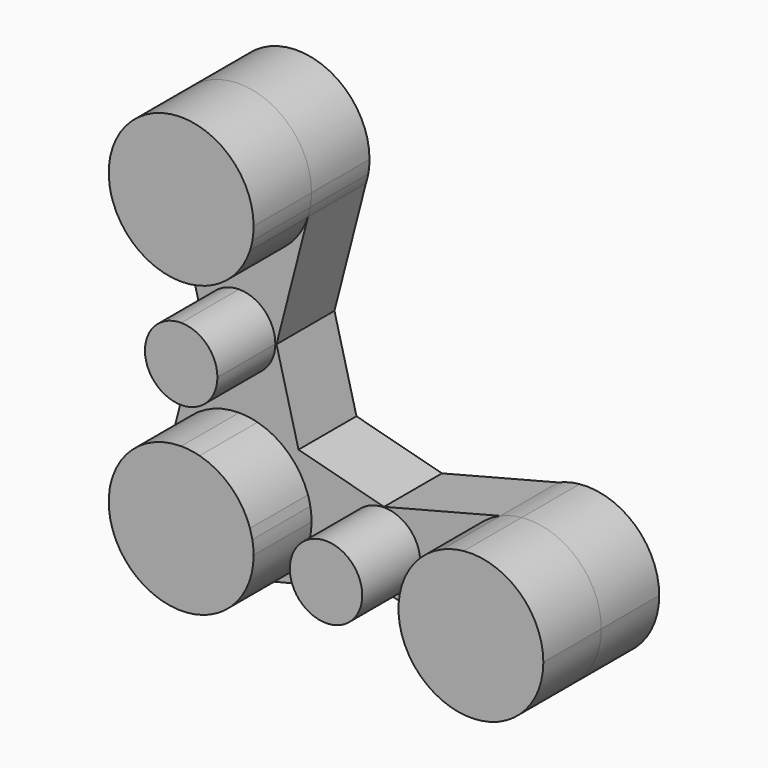
from build123d import *

# Parameters (mm, degrees)
F1_DEPTH = 50.8
F2_DEPTH = 25.4


with BuildPart() as f1:
    # F0 (on Front) → F1 (new body)
    with BuildSketch(Plane.XZ):
        with BuildLine():
            ThreePointArc((-75.8961302399, 46.8828266589), (-75.40831074, 44.5078586694), (-74.6962701194, 42.1902221643))
            Line((-74.6962701194, 42.1902221643), (-75.8961302399, 46.8828266589))
        make_face()
        with BuildLine():
            Line((-25.8372618241, 46.1072712881), (-26.6680064828, 42.8749202601))
            ThreePointArc((-26.6680064828, 42.8749202601), (-26.1994879465, 44.4774366984), (-25.8372618241, 46.1072712881))
        make_face()
        with BuildLine():
            ThreePointArc((-75.8961302399, 46.8828266589), (-75.40831074, 44.5078586694), (-74.6962701194, 42.1902221643))
            Line((-74.6962701194, 42.1902221643), (-75.8961302399, 46.8828266589))
        make_face()
        with BuildLine():
            Line((-25.8372618241, 46.1072712881), (-26.6680064828, 42.8749202601))
            ThreePointArc((-26.6680064828, 42.8749202601), (-26.1994879465, 44.4774366984), (-25.8372618241, 46.1072712881))
        make_face()
        with BuildLine():
            ThreePointArc((-74.6962701194, 42.1902221643), (-65.4025963954, 30.0172143707), (-50.8, 25.4))
            ThreePointArc((-50.8, 25.4), (-35.9026348872, 30.2274816151), (-26.6680064828, 42.8749202601))
            Line((-26.6680064828, 42.8749202601), (-25.8372618241, 46.1072712881))
            ThreePointArc((-25.8372618241, 46.1072712881), (-25.5095517075, 48.4434717981), (-25.4, 50.8))
            ThreePointArc((-25.4, 50.8), (-52.7644709094, 76.1239186155), (-75.8961302399, 46.8828266589))
            Line((-75.8961302399, 46.8828266589), (-74.6962701194, 42.1902221643))
        make_face()
    extrude(amount=F1_DEPTH)


with BuildPart() as f1b:
    # F0 (on Front) → F1, piece 2 (new body)
    with BuildSketch(Plane.XZ):
        with BuildLine():
            Line((-75.8961302399, -46.8828266589), (-74.6962701194, -42.1902221643))
            ThreePointArc((-74.6962701194, -42.1902221643), (-75.40831074, -44.5078586694), (-75.8961302399, -46.8828266589))
        make_face()
        with BuildLine():
            Line((-40.7956430213, -74.1467951), (-48.578768387, -76.1026901756))
            ThreePointArc((-48.578768387, -76.1026901756), (-44.6094721154, -75.4340691829), (-40.7956430213, -74.1467951))
        make_face()
        with BuildLine():
            Line((-75.8961302399, -46.8828266589), (-74.6962701194, -42.1902221643))
            ThreePointArc((-74.6962701194, -42.1902221643), (-75.40831074, -44.5078586694), (-75.8961302399, -46.8828266589))
        make_face()
        with BuildLine():
            Line((-40.7956430213, -74.1467951), (-48.578768387, -76.1026901756))
            ThreePointArc((-48.578768387, -76.1026901756), (-44.6094721154, -75.4340691829), (-40.7956430213, -74.1467951))
        make_face()
        with BuildLine():
            Line((-50.8, -50.8), (-50.8, -25.4))
            ThreePointArc((-50.8, -25.4), (-65.4025963954, -30.0172143707), (-74.6962701194, -42.1902221643))
            Line((-74.6962701194, -42.1902221643), (-75.8961302399, -46.8828266589))
            ThreePointArc((-75.8961302399, -46.8828266589), (-69.3543890436, -68.1463150905), (-48.578768387, -76.1026901756))
            Line((-48.578768387, -76.1026901756), (-40.7956430213, -74.1467951))
            ThreePointArc((-40.7956430213, -74.1467951), (-29.5953935752, -64.7830134939), (-25.4, -50.8))
            Line((-25.4, -50.8), (-50.8, -50.8))
        make_face()
        with BuildLine():
            ThreePointArc((-44.3299344082, -26.2378695705), (-47.537954086, -25.6103383021), (-50.8, -25.4))
            Line((-50.8, -25.4), (-50.8, -50.8))
            Line((-50.8, -50.8), (-25.4, -50.8))
            ThreePointArc((-25.4, -50.8), (-25.5095517075, -48.4434717981), (-25.8372618241, -46.1072712881))
            Line((-25.8372618241, -46.1072712881), (-26.6680064828, -42.8749202601))
            ThreePointArc((-26.6680064828, -42.8749202601), (-33.3839335859, -32.3110673467), (-44.3299344082, -26.2378695705))
        make_face()
    extrude(amount=F1_DEPTH)


with BuildPart() as f1c:
    # F0 (on Front) → F1, piece 3 (new body)
    with BuildSketch(Plane.XZ):
        with BuildLine():
            ThreePointArc((48.3117699414, -25.5221695714), (44.4887363609, -26.196586593), (40.8131288755, -27.4457197682))
            Line((40.8131288755, -27.4457197682), (48.3117699414, -25.5221695714))
        make_face()
        with BuildLine():
            Line((48.578768387, -76.1026901756), (40.7956430213, -74.1467951))
            ThreePointArc((40.7956430213, -74.1467951), (44.6094721154, -75.4340691829), (48.578768387, -76.1026901756))
        make_face()
        with BuildLine():
            ThreePointArc((48.3117699414, -25.5221695714), (44.4887363609, -26.196586593), (40.8131288755, -27.4457197682))
            Line((40.8131288755, -27.4457197682), (48.3117699414, -25.5221695714))
        make_face()
        with BuildLine():
            Line((48.578768387, -76.1026901756), (40.7956430213, -74.1467951))
            ThreePointArc((40.7956430213, -74.1467951), (44.6094721154, -75.4340691829), (48.578768387, -76.1026901756))
        make_face()
        with BuildLine():
            Line((48.3117699414, -25.5221695714), (40.8131288755, -27.4457197682))
            ThreePointArc((40.8131288755, -27.4457197682), (29.6006305924, -36.809048041), (25.4, -50.8))
            ThreePointArc((25.4, -50.8), (29.5953935752, -64.7830134939), (40.7956430213, -74.1467951))
            Line((40.7956430213, -74.1467951), (48.578768387, -76.1026901756))
            ThreePointArc((48.578768387, -76.1026901756), (67.957224674, -69.5293791004), (76.2, -50.8))
            ThreePointArc((76.2, -50.8), (67.8581205956, -31.980315578), (48.3117699414, -25.5221695714))
        make_face()
    extrude(amount=F1_DEPTH)


with BuildPart() as f1d:
    # F0 (on Front) → F1, piece 4 (new body)
    with BuildSketch(Plane.XZ):
        with BuildLine():
            Line((-50.8, 0), (-50.8, 12.7))
            ThreePointArc((-50.8, 12.7), (-63.5, 0), (-50.8, -12.7))
            Line((-50.8, -12.7), (-50.8, 0))
        make_face()
        with BuildLine():
            ThreePointArc((-38.1, 0), (-41.8197438789, 8.9802561211), (-50.8, 12.7))
            Line((-50.8, 12.7), (-50.8, 0))
            Line((-50.8, 0), (-50.8, -12.7))
            ThreePointArc((-50.8, -12.7), (-41.8197438789, -8.9802561211), (-38.1, 0))
        make_face()
    extrude(amount=F1_DEPTH)


with BuildPart() as f1e:
    # F0 (on Front) → F1, piece 5 (new body)
    with BuildSketch(Plane.XZ):
        with BuildLine():
            ThreePointArc((12.7, -50.8), (0, -38.1), (-12.7, -50.8))
            Line((-12.7, -50.8), (0, -50.8))
            Line((0, -50.8), (12.7, -50.8))
        make_face()
        with BuildLine():
            Line((0, -50.8), (-12.7, -50.8))
            ThreePointArc((-12.7, -50.8), (0, -63.5), (12.7, -50.8))
            Line((12.7, -50.8), (0, -50.8))
        make_face()
    extrude(amount=F1_DEPTH)


with BuildPart() as f2:
    # F0 (on Front) → F2 (new body)
    with BuildSketch(Plane.XZ):
        with BuildLine():
            ThreePointArc((-26.6680064828, 42.8749202601), (-35.9026348872, 30.2274816151), (-50.8, 25.4))
            Line((-50.8, 25.4), (-50.8, 12.7))
            ThreePointArc((-50.8, 12.7), (-41.8197438789, 8.9802561211), (-38.1, 0))
            ThreePointArc((-38.1, 0), (-41.8197438789, -8.9802561211), (-50.8, -12.7))
            Line((-50.8, -12.7), (-50.8, -25.4))
            ThreePointArc((-50.8, -25.4), (-47.537954086, -25.6103383021), (-44.3299344082, -26.2378695705))
            Line((-44.3299344082, -26.2378695705), (-29.9718351261, -30.0200270016))
            Line((-29.9718351261, -30.0200270016), (-37.6872648139, 0))
            Line((-37.6872648139, 0), (-26.6680064828, 42.8749202601))
        make_face()
        with BuildLine():
            Line((-50.8, 12.7), (-50.8, 25.4))
            ThreePointArc((-50.8, 25.4), (-65.4025963954, 30.0172143707), (-74.6962701194, 42.1902221643))
            Line((-74.6962701194, 42.1902221643), (-63.9085795936, 0))
            Line((-63.9085795936, 0), (-74.6962701194, -42.1902221643))
            ThreePointArc((-74.6962701194, -42.1902221643), (-65.4025963954, -30.0172143707), (-50.8, -25.4))
            Line((-50.8, -25.4), (-50.8, -12.7))
            ThreePointArc((-50.8, -12.7), (-63.5, 0), (-50.8, 12.7))
        make_face()
        with BuildLine():
            ThreePointArc((-74.6962701194, 42.1902221643), (-65.4025963954, 30.0172143707), (-50.8, 25.4))
            ThreePointArc((-50.8, 25.4), (-35.9026348872, 30.2274816151), (-26.6680064828, 42.8749202601))
            Line((-26.6680064828, 42.8749202601), (-25.8372618241, 46.1072712881))
            ThreePointArc((-25.8372618241, 46.1072712881), (-25.5095517075, 48.4434717981), (-25.4, 50.8))
            ThreePointArc((-25.4, 50.8), (-52.7644709094, 76.1239186155), (-75.8961302399, 46.8828266589))
            Line((-75.8961302399, 46.8828266589), (-74.6962701194, 42.1902221643))
        make_face()
        with BuildLine():
            ThreePointArc((-75.8961302399, 46.8828266589), (-75.40831074, 44.5078586694), (-74.6962701194, 42.1902221643))
            Line((-74.6962701194, 42.1902221643), (-75.8961302399, 46.8828266589))
        make_face()
        with BuildLine():
            Line((-25.8372618241, 46.1072712881), (-26.6680064828, 42.8749202601))
            ThreePointArc((-26.6680064828, 42.8749202601), (-26.1994879465, 44.4774366984), (-25.8372618241, 46.1072712881))
        make_face()
        with BuildLine():
            Line((-50.8, -50.8), (-50.8, -25.4))
            ThreePointArc((-50.8, -25.4), (-65.4025963954, -30.0172143707), (-74.6962701194, -42.1902221643))
            Line((-74.6962701194, -42.1902221643), (-75.8961302399, -46.8828266589))
            ThreePointArc((-75.8961302399, -46.8828266589), (-69.3543890436, -68.1463150905), (-48.578768387, -76.1026901756))
            Line((-48.578768387, -76.1026901756), (-40.7956430213, -74.1467951))
            ThreePointArc((-40.7956430213, -74.1467951), (-29.5953935752, -64.7830134939), (-25.4, -50.8))
            Line((-25.4, -50.8), (-50.8, -50.8))
        make_face()
        with BuildLine():
            Line((-75.8961302399, -46.8828266589), (-74.6962701194, -42.1902221643))
            ThreePointArc((-74.6962701194, -42.1902221643), (-75.40831074, -44.5078586694), (-75.8961302399, -46.8828266589))
        make_face()
        with BuildLine():
            Line((0, -37.9150970049), (-29.9718351261, -30.0200270016))
            Line((-29.9718351261, -30.0200270016), (-26.6680064828, -42.8749202601))
            ThreePointArc((-26.6680064828, -42.8749202601), (-26.1994879465, -44.4774366984), (-25.8372618241, -46.1072712881))
            ThreePointArc((-25.8372618241, -46.1072712881), (-25.5095517075, -48.4434717981), (-25.4, -50.8))
            Line((-25.4, -50.8), (-12.7, -50.8))
            ThreePointArc((-12.7, -50.8), (0, -38.1), (12.7, -50.8))
            Line((12.7, -50.8), (25.4, -50.8))
            ThreePointArc((25.4, -50.8), (29.6006305924, -36.809048041), (40.8131288755, -27.4457197682))
            Line((40.8131288755, -27.4457197682), (0, -37.9150970049))
        make_face()
        with BuildLine():
            Line((-26.6680064828, -42.8749202601), (-29.9718351261, -30.0200270016))
            Line((-29.9718351261, -30.0200270016), (-44.3299344082, -26.2378695705))
            ThreePointArc((-44.3299344082, -26.2378695705), (-33.3839335859, -32.3110673467), (-26.6680064828, -42.8749202601))
        make_face()
        with BuildLine():
            Line((-12.7, -50.8), (-25.4, -50.8))
            ThreePointArc((-25.4, -50.8), (-29.5953935752, -64.7830134939), (-40.7956430213, -74.1467951))
            Line((-40.7956430213, -74.1467951), (0, -63.8948726986))
            Line((0, -63.8948726986), (40.7956430213, -74.1467951))
            ThreePointArc((40.7956430213, -74.1467951), (29.5953935752, -64.7830134939), (25.4, -50.8))
            Line((25.4, -50.8), (12.7, -50.8))
            ThreePointArc((12.7, -50.8), (0, -63.5), (-12.7, -50.8))
        make_face()
        with BuildLine():
            Line((-40.7956430213, -74.1467951), (-48.578768387, -76.1026901756))
            ThreePointArc((-48.578768387, -76.1026901756), (-44.6094721154, -75.4340691829), (-40.7956430213, -74.1467951))
        make_face()
        with BuildLine():
            Line((48.3117699414, -25.5221695714), (40.8131288755, -27.4457197682))
            ThreePointArc((40.8131288755, -27.4457197682), (29.6006305924, -36.809048041), (25.4, -50.8))
            ThreePointArc((25.4, -50.8), (29.5953935752, -64.7830134939), (40.7956430213, -74.1467951))
            Line((40.7956430213, -74.1467951), (48.578768387, -76.1026901756))
            ThreePointArc((48.578768387, -76.1026901756), (67.957224674, -69.5293791004), (76.2, -50.8))
            ThreePointArc((76.2, -50.8), (67.8581205956, -31.980315578), (48.3117699414, -25.5221695714))
        make_face()
        with BuildLine():
            ThreePointArc((48.3117699414, -25.5221695714), (44.4887363609, -26.196586593), (40.8131288755, -27.4457197682))
            Line((40.8131288755, -27.4457197682), (48.3117699414, -25.5221695714))
        make_face()
        with BuildLine():
            Line((48.578768387, -76.1026901756), (40.7956430213, -74.1467951))
            ThreePointArc((40.7956430213, -74.1467951), (44.6094721154, -75.4340691829), (48.578768387, -76.1026901756))
        make_face()
    extrude(amount=F2_DEPTH)


solid = Compound([f1.part, f1b.part, f1c.part, f1d.part, f1e.part, f2.part])
